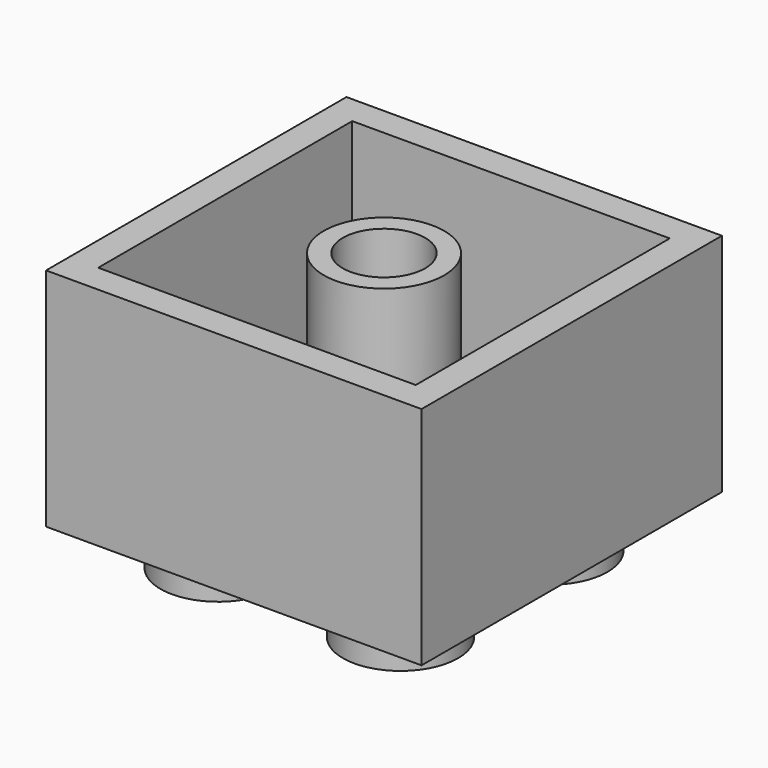
from build123d import *

# Parameters (mm, degrees)
F0_W     = 15.81
F0_H     = 15.81
F0_R     = 2.425
F1_DEPTH = 9.5
F2_DEPTH = 1.85
F4_W     = 13.37
F4_H     = 13.37
F4_R     = 2.535
F5_DEPTH = 8.5
F6_R     = 1.735
F7_DEPTH = 8.5
F8_DEPTH = 8.5


with BuildPart() as f1:
    # F0 (on Top) → F1 (new body)
    with BuildSketch(Plane.XY):
        Rectangle(F0_W, F0_H)
        with Locations((-3.88, -3.88)):
            Circle(F0_R, mode=Mode.SUBTRACT)
        with Locations((3.88, -3.980963)):
            Circle(F0_R, mode=Mode.SUBTRACT)
        with Locations((-3.88, 3.88)):
            Circle(F0_R, mode=Mode.SUBTRACT)
        with Locations((3.88, 3.88)):
            Circle(F0_R, mode=Mode.SUBTRACT)
        with Locations((-3.88, 3.88)):
            Circle(F0_R)
        with Locations((3.88, 3.88)):
            Circle(F0_R)
        with Locations((3.88, -3.980963)):
            Circle(F0_R)
        with Locations((-3.88, -3.88)):
            Circle(F0_R)
    extrude(amount=F1_DEPTH)

    # F0 (on Top) → F2 (join)
    with BuildSketch(Plane.XY):
        with Locations((-3.88, -3.88)):
            Circle(F0_R)
        with Locations((3.88, -3.980963)):
            Circle(F0_R)
        with Locations((3.88, 3.88)):
            Circle(F0_R)
        with Locations((-3.88, 3.88)):
            Circle(F0_R)
    extrude(amount=-F2_DEPTH)

    # F4 (on face) → F5 (cut)
    with BuildSketch(Plane.XY.offset(9.5)):
        Rectangle(F4_W, F4_H)
        Circle(F4_R, mode=Mode.SUBTRACT)
    extrude(amount=-F5_DEPTH, mode=Mode.SUBTRACT)

    # F6 (on face) → F7 (join)
    with BuildSketch(Plane.XY.offset(9.5)):
        Circle(F6_R)
    extrude(amount=-F7_DEPTH)

    # F6 (on face) → F8 (cut)
    with BuildSketch(Plane.XY.offset(9.5)):
        Circle(F6_R)
    extrude(amount=-F8_DEPTH, mode=Mode.SUBTRACT)


solid = f1.part
